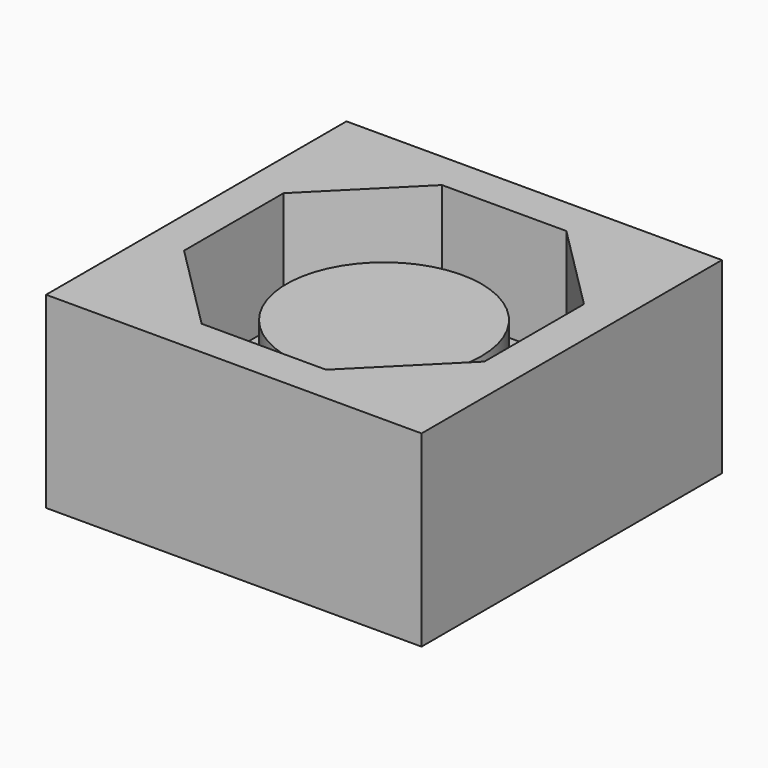
from build123d import *

# Parameters (mm, degrees)
F0_W     = 10
F0_H     = 10
F1_DEPTH = 5
F3_DEPTH = 3
F4_R     = 2.6
F5_DEPTH = 2


with BuildPart() as f1:
    # F0 (on Top) → F1 (new body)
    with BuildSketch(Plane.XY):
        Rectangle(F0_W, F0_H)
    extrude(amount=F1_DEPTH)

    # F2 (on face) → F3 (cut)
    with BuildSketch(Plane.XY.offset(5)):
        Polygon((-4, 1.656854), (-4, -1.656854), (-1.656854, -4), (1.656854, -4), (4, -1.656854), (4, 1.656854), (1.656854, 4), (-1.656854, 4), align=None)
    extrude(amount=-F3_DEPTH, mode=Mode.SUBTRACT)

    # F4 (on face) → F5 (join)
    with BuildSketch(Plane.XY.offset(2)):
        Circle(F4_R)
    extrude(amount=F5_DEPTH)


solid = f1.part
